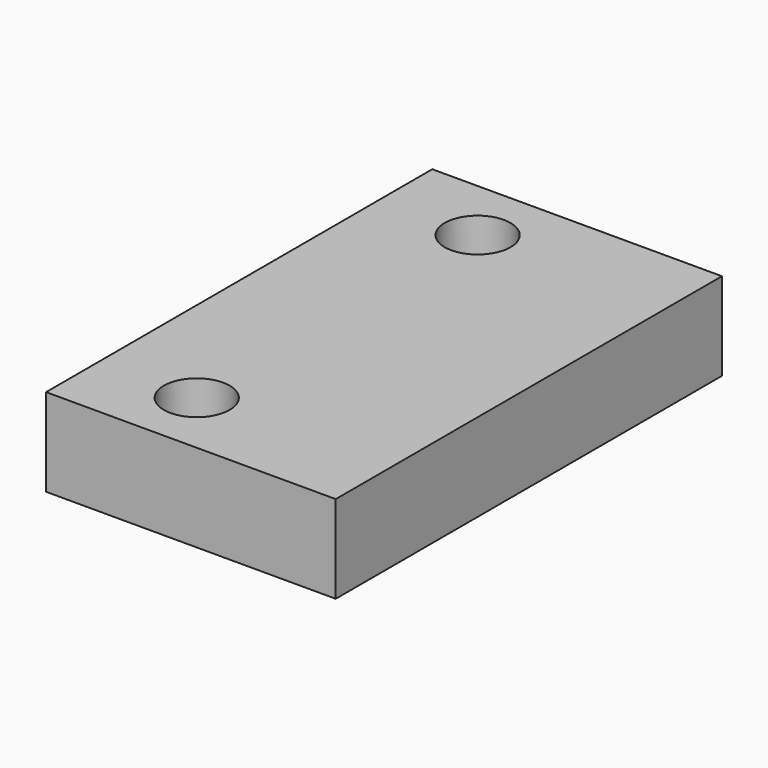
from build123d import *

# Parameters (mm, degrees)
F0_W     = 22
F0_H     = 15
F0_W_2   = 44
F0_H_2   = 80
F1_DEPTH = 20
F3_D     = 15


with BuildPart() as f1:
    # F0 (on Top) → F1 (new body)
    with BuildSketch(Plane.XY):
        with Locations((-55, 47.5)):
            Rectangle(F0_W, F0_H)
        with Locations((-22, 47.5)):
            Rectangle(F0_W_2, F0_H)
        Polygon((0, -40), (0, 0), (0, 40), (-44, 40), (-44, -40), align=None)
        with Locations((-55, 0)):
            Rectangle(F0_W, F0_H_2)
        with Locations((-55, -47.5)):
            Rectangle(F0_W, F0_H)
        with Locations((-22, -47.5)):
            Rectangle(F0_W_2, F0_H)
    extrude(amount=F1_DEPTH)

    # F3 (through all)
    with Locations(Plane(origin=(0, 0, 0), x_dir=(1, 0, 0), z_dir=(0, 0, -1))):
        with Locations((-43.8447110355, -40.2159020305), (-43.7023043633, 39.95815292)):
            Hole(F3_D / 2)


solid = f1.part
